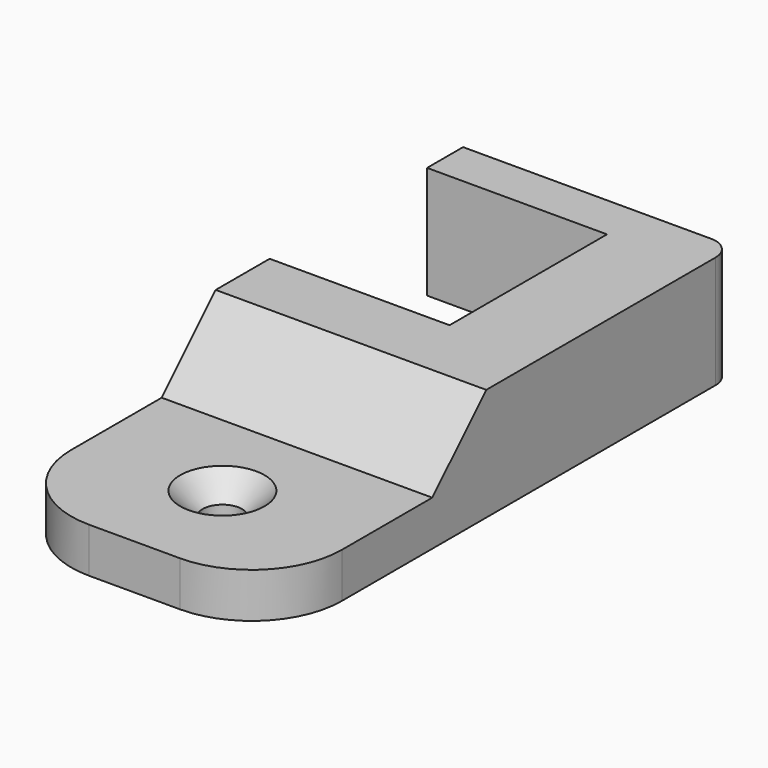
from build123d import *

# Parameters (mm, degrees)
PAD_DEPTH    = 10
SKETCH001_W  = 24.062258
SKETCH001_H  = 24.062258
PAD001_DEPTH = 4
SKETCH002_R  = 1.75
POCKET_DEPTH = 4.001
CHAMFER_SIZE = 2
FILLET_R     = 8
FILLET001_R  = 2
PAD002_DEPTH = 24.062258


with BuildPart() as part:
    # Sketch → Pad (new body)
    with BuildSketch(Plane.XY):
        Polygon((0, 8.75), (0, 12.75), (24.062258, 12.75), (24.062258, -14.75), (0, -14.75), (0, -8.75), (16, -8.75), (16, 8.75), align=None)
    extrude(amount=PAD_DEPTH)

    # Sketch001 (on Face9 of Pad) → Pad001 (join)
    with BuildSketch(Plane(origin=(0, 0, 0), x_dir=(1, 0, 0), z_dir=(0, 0, -1))):
        with Locations((12.031129, 26.781129)):
            Rectangle(SKETCH001_W, SKETCH001_H)
    extrude(amount=-PAD001_DEPTH)

    # Sketch002 (on Face15 of Pad001) → Pocket (cut, through all)
    with BuildSketch(Plane.XY.offset(4)):
        with Locations((12.031129, -29.039748)):
            Circle(SKETCH002_R)
    extrude(amount=-POCKET_DEPTH, mode=Mode.SUBTRACT)

    # Chamfer
    chamfer_edges = [part.edges().sort_by_distance(p)[0] for p in [
        (10.281129, -29.039748, 4),
    ]]
    chamfer(chamfer_edges, length=CHAMFER_SIZE)

    # Fillet
    fillet_edges = [part.edges().sort_by_distance(p)[0] for p in [
        (0, -38.812258, 2),
        (24.062258, -38.812258, 2),
    ]]
    fillet(fillet_edges, radius=FILLET_R)

    # Fillet001
    fillet001_edges = [part.edges().sort_by_distance(p)[0] for p in [
        (24.062258, 12.75, 5),
    ]]
    fillet(fillet001_edges, radius=FILLET001_R)

    # Sketch003 (on Face12 of Fillet001) → Pad002 (join)
    with BuildSketch(Plane.YZ.offset(24.062258)):
        Polygon((-20.75, 4), (-14.75, 10), (-14.75, 4), align=None)
    extrude(amount=-PAD002_DEPTH)


solid = part.part
